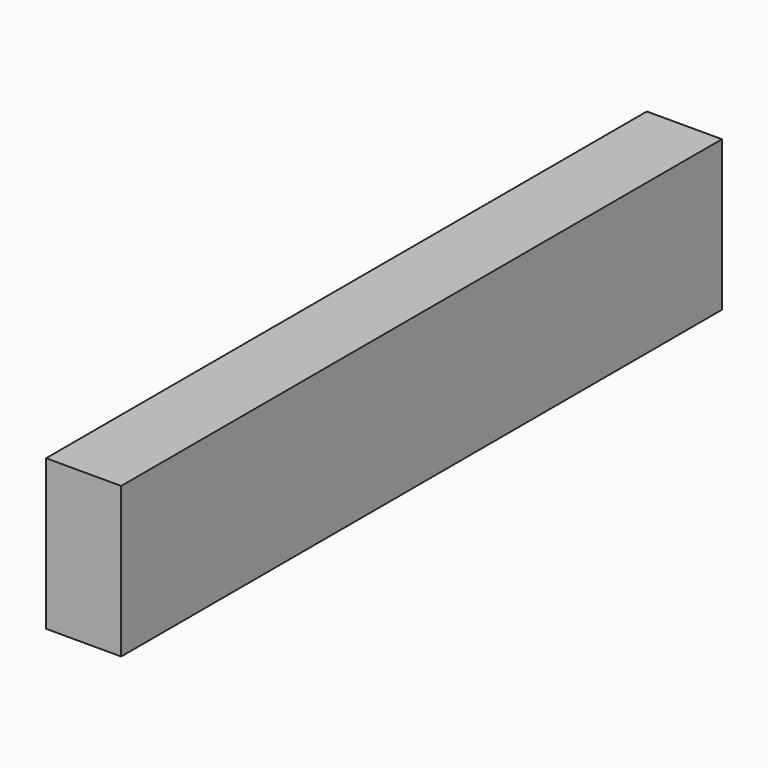
from build123d import *

# Parameters (mm, degrees)
F0_W     = 5.08
F0_H     = 50.8
F0_W_2   = 2.54
F0_H_2   = 38.1
F1_DEPTH = 10.16
F2_DEPTH = 5.08
F3_R     = 1.27
F4_DEPTH = 2.54


with BuildPart() as f1:
    # F0 (on Top) → F1 (new body)
    with BuildSketch(Plane.XY):
        with Locations((-11.560145, 0.263519)):
            Rectangle(F0_W, F0_H)
        with Locations((-11.560145, 1.533519)):
            Rectangle(F0_W_2, F0_H_2, mode=Mode.SUBTRACT)
        with Locations((-11.560145, 1.533519)):
            Rectangle(F0_W_2, F0_H_2)
    extrude(amount=F1_DEPTH)

    # F0 (on Top) → F2 (cut)
    with BuildSketch(Plane.XY):
        with Locations((-11.560145, 1.533519)):
            Rectangle(F0_W_2, F0_H_2)
    extrude(amount=F2_DEPTH, mode=Mode.SUBTRACT)

    # F3 (on face) → F4 (join)
    with BuildSketch(Plane(origin=(-10.290145, 0, 0), x_dir=(0, -1, 0), z_dir=(-1, 0, 0))):
        with Locations((-18.043519, 2.54)):
            Circle(F3_R)
    extrude(amount=F4_DEPTH)


solid = f1.part
